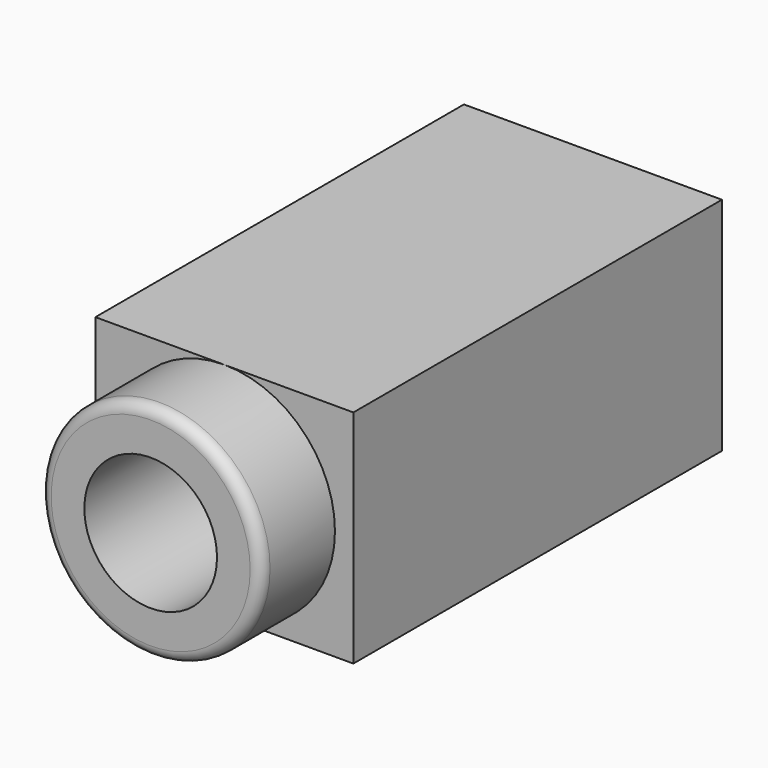
from build123d import *

# Parameters (mm, degrees)
CYLINDER002_R     = 1.8
CYLINDER002_DEPTH = 12
CYLINDER001_R     = 3
CYLINDER001_DEPTH = 2.5
BOX054_W          = 7
BOX054_H          = 12.5
BOX054_DEPTH      = 6
FILLET010_R       = 0.3


with BuildPart() as cylinder:
    # Cylinder002 → Cylinder002 (new body)
    with BuildSketch(Plane(origin=(0, 9.5, 3), x_dir=(1, 0, 0), z_dir=(0, -1, 0))):
        Circle(CYLINDER002_R)
    extrude(amount=CYLINDER002_DEPTH)


with BuildPart() as cylinder001:
    # Cylinder001 → Cylinder001 (new body)
    with BuildSketch(Plane(origin=(0, 0, 3), x_dir=(1, 0, 0), z_dir=(0, -1, 0))):
        Circle(CYLINDER001_R)
    extrude(amount=CYLINDER001_DEPTH)


with BuildPart() as phone_socket_audio_video:
    # Box054 → Box054 (new body)
    with BuildSketch(Plane(origin=(-3.5, 0, 0), x_dir=(1, 0, 0), z_dir=(0, 0, 1))):
        with Locations((3.5, 6.25)):
            Rectangle(BOX054_W, BOX054_H)
    extrude(amount=BOX054_DEPTH)

    # Fusion043: union Cylinder001
    add(cylinder001.part)

    # Cut010: cut Cylinder
    add(cylinder.part, mode=Mode.SUBTRACT)

    # Fillet010
    fillet010_edges = [phone_socket_audio_video.edges().sort_by_distance(p)[0] for p in [
        (-3, -2.5, 3),
    ]]
    fillet(fillet010_edges, radius=FILLET010_R)


with BuildPart() as phone_socket_audio_video_1:
    # Fillet010 placement: moved
    add(phone_socket_audio_video.part.moved(Location((54, 0, 1.5))))


solid = phone_socket_audio_video_1.part
